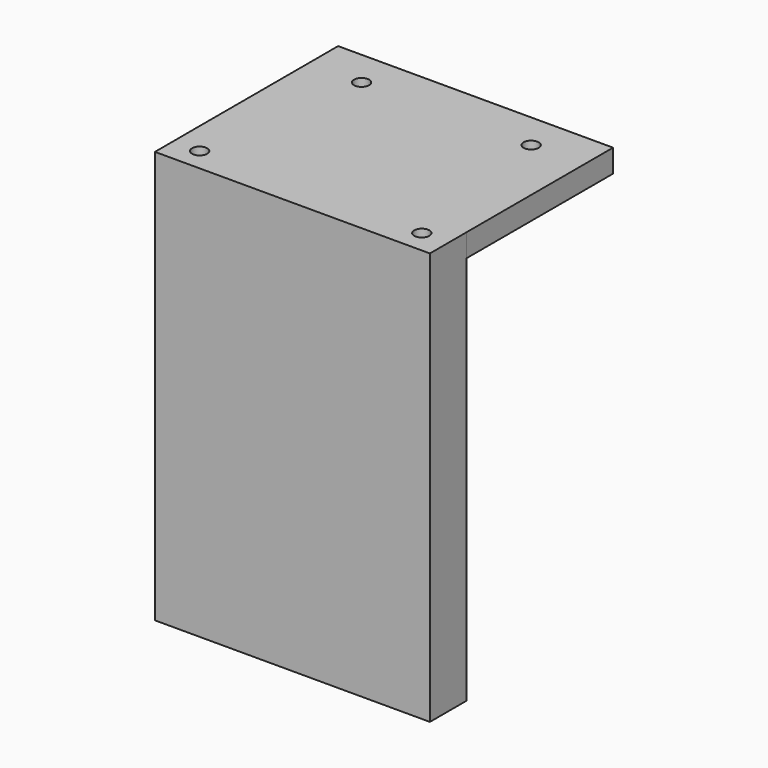
from build123d import *

# Parameters (mm, degrees)
F0_R     = 1.65
F2_DEPTH = 90
F1_W     = 60
F1_H     = 5
F3_DEPTH = 42
F4_DEPTH = 97


with BuildPart() as f2:
    # F0 (on Top) → F2 (new body)
    with BuildSketch(Plane.XY):
        Polygon((-49.989993, -7.976015), (10.010007, -7.976015), (10.010007, 2.023985), (-49.989994, 2.023985), align=None)
        with Locations((-44.239994, -2.976015)):
            Circle(F0_R, mode=Mode.SUBTRACT)
        with Locations((4.240008, -2.976015)):
            Circle(F0_R, mode=Mode.SUBTRACT)
    extrude(amount=F2_DEPTH)

    # F1 (on Front) → F3 (join)
    with BuildSketch(Plane.XZ):
        with Locations((-20.000001, 87.5)):
            Rectangle(F1_W, F1_H)
    extrude(amount=-F3_DEPTH)

    # F0 (on Top) → F4 (cut)
    with BuildSketch(Plane.XY):
        with Locations((4.240008, -2.976015)):
            Circle(F0_R)
        with Locations((-44.239994, -2.976015)):
            Circle(F0_R)
        with Locations((-38.499993, 34.023985)):
            Circle(F0_R)
        with Locations((-1.499993, 34.023985)):
            Circle(F0_R)
    extrude(amount=F4_DEPTH, mode=Mode.SUBTRACT)


solid = f2.part
